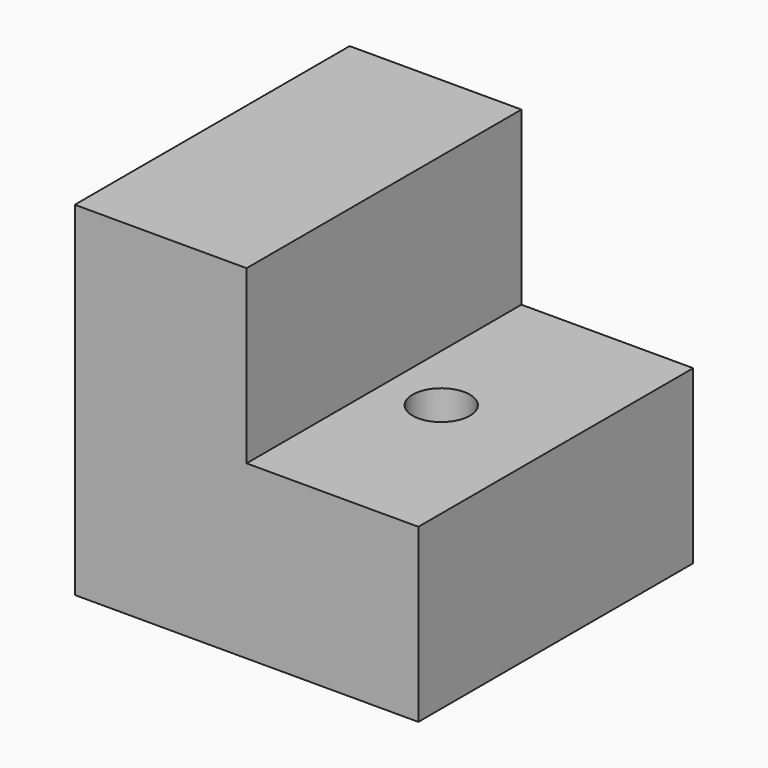
from build123d import *

# Parameters (mm, degrees)
F0_R     = 0.5
F1_DEPTH = 3
F2_W     = 3
F2_H     = 6
F3_DEPTH = 6


with BuildPart() as f1:
    # F0 (on Top) → F1 (new body)
    with BuildSketch(Plane.XY):
        Polygon((0, 6), (0, 0), (6, 0), (6, 6), (4, 6), align=None)
        with Locations((4, 3)):
            Circle(F0_R, mode=Mode.SUBTRACT)
    extrude(amount=F1_DEPTH)

    # F2 (on Top) → F3 (join)
    with BuildSketch(Plane.XY):
        with Locations((1.5, 3)):
            Rectangle(F2_W, F2_H)
    extrude(amount=F3_DEPTH)


solid = f1.part
